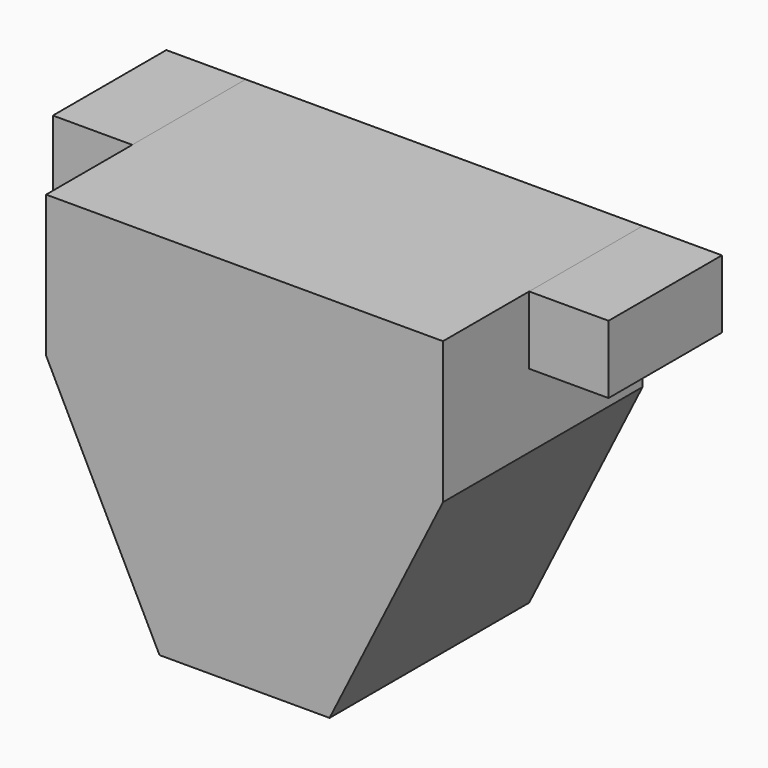
from build123d import *

# Parameters (mm, degrees)
F0_W     = 14
F0_H     = 12
F1_DEPTH = 25
F2_DEPTH = 44


with BuildPart() as f1:
    # F0 (on Front) → F1 (new body)
    with BuildSketch(Plane.XZ):
        with Locations((-42, 6.5)):
            Rectangle(F0_W, F0_H)
        with Locations((42, 6.5)):
            Rectangle(F0_W, F0_H)
    extrude(amount=F1_DEPTH)


with BuildPart() as f2:
    # F0 (on Front) → F2 (new body)
    with BuildSketch(Plane.XZ):
        Polygon((-35, 0.5), (-35, -12.5), (35, -12.5), (35, 0.5), (35, 12.5), (-35, 12.5), align=None)
        Polygon((35, -12.5), (-35, -12.5), (-15, -52.5), (15, -52.5), align=None)
    extrude(amount=F2_DEPTH)


solid = Compound([f1.part, f2.part])
